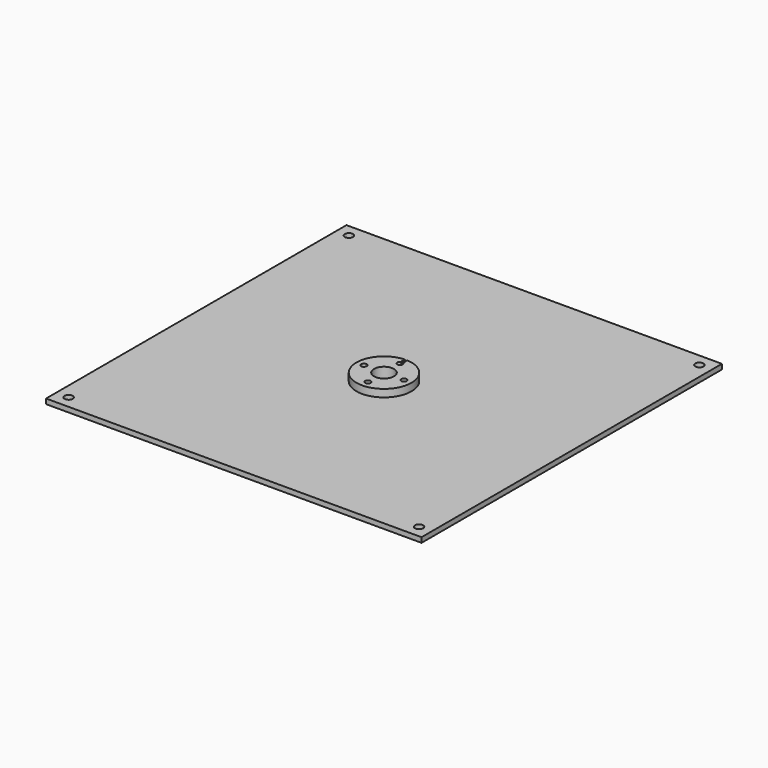
from build123d import *

# Parameters (mm, degrees)
F0_W     = 150
F0_H     = 150
F0_R     = 4
F1_DEPTH = 2
F2_D     = 2.2
F3_D     = 3.3
F4_R     = 11
F4_R_2   = 4
F5_DEPTH = 5
F6_D     = 2.2
F8_DEPTH = 0.4


with BuildPart() as f1:
    # F0 (on Top) → F1 (new body)
    with BuildSketch(Plane.XY):
        Rectangle(F0_W, F0_H)
        Circle(F0_R, mode=Mode.SUBTRACT)
    extrude(amount=F1_DEPTH)

    # F2 (through all)
    with Locations(Plane(origin=(0, 0, 0), x_dir=(1, 0, 0), z_dir=(0, 0, -1))):
        with Locations((0, -8), (-8, 0), (0, 8), (8, 0)):
            Hole(F2_D / 2)

    # F3 (through all)
    with Locations(Plane(origin=(0, 0, 0), x_dir=(1, 0, 0), z_dir=(0, 0, -1))):
        with Locations((-70, -70), (-70, 70), (70, 70), (70, -70)):
            Hole(F3_D / 2)


with BuildPart() as f5:
    # F4 (on Top) → F5 (new body)
    with BuildSketch(Plane.XY):
        Circle(F4_R)
        Circle(F4_R_2, mode=Mode.SUBTRACT)
    extrude(amount=F5_DEPTH)

    # F6 (through all)
    with Locations(Plane(origin=(0, 0, 0), x_dir=(1, 0, 0), z_dir=(0, 0, -1))):
        with Locations((0, 8), (8, 0), (0, -8), (-8, 0)):
            Hole(F6_D / 2)

    # F7 (on face) → F8 (cut)
    with BuildSketch(Plane.XY.offset(5)):
        with BuildLine():
            Line((-0.5, 10.9886304879), (-0.5, 8.9797958971))
            ThreePointArc((-0.5, 8.9797958971), (0, 9.1), (0.5, 8.9797958971))
            Line((0.5, 8.9797958971), (0.5, 10.9886304879))
            ThreePointArc((0.5, 10.9886304879), (0, 11), (-0.5, 10.9886304879))
        make_face()
    extrude(amount=-F8_DEPTH, mode=Mode.SUBTRACT)


solid = Compound([f1.part, f5.part])
